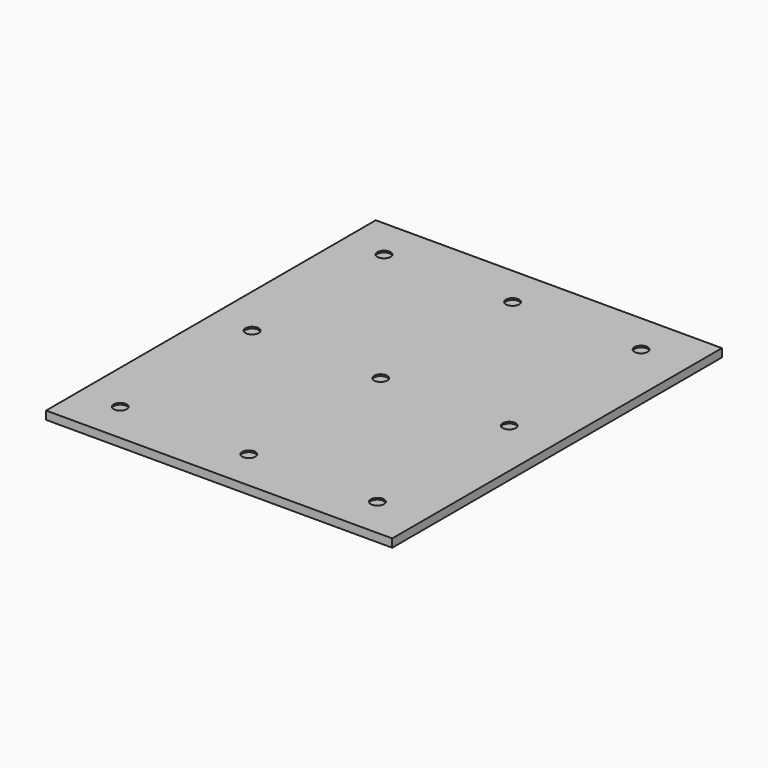
from build123d import *

# Parameters (mm, degrees)
F0_W     = 210
F0_H     = 250
F1_DEPTH = 5
F2_R     = 4
F3_DEPTH = 1


with BuildPart() as f1:
    # F0 (on Top) → F1 (new body)
    with BuildSketch(Plane.XY):
        Rectangle(F0_W, F0_H)
    extrude(amount=F1_DEPTH)

    # F2 (on face) → F3 (cut)
    with BuildSketch(Plane.XY.offset(5)):
        with Locations((-80, -100)):
            Circle(F2_R)
        with Locations((-80, 0)):
            Circle(F2_R)
        with Locations((-80, 100)):
            Circle(F2_R)
        with Locations((-2, -100)):
            Circle(F2_R)
        with Locations((-2, 0)):
            Circle(F2_R)
        with Locations((-2, 100)):
            Circle(F2_R)
        with Locations((76, -100)):
            Circle(F2_R)
        with Locations((76, 0)):
            Circle(F2_R)
        with Locations((76, 100)):
            Circle(F2_R)
    extrude(amount=-F3_DEPTH, mode=Mode.SUBTRACT)


solid = f1.part
